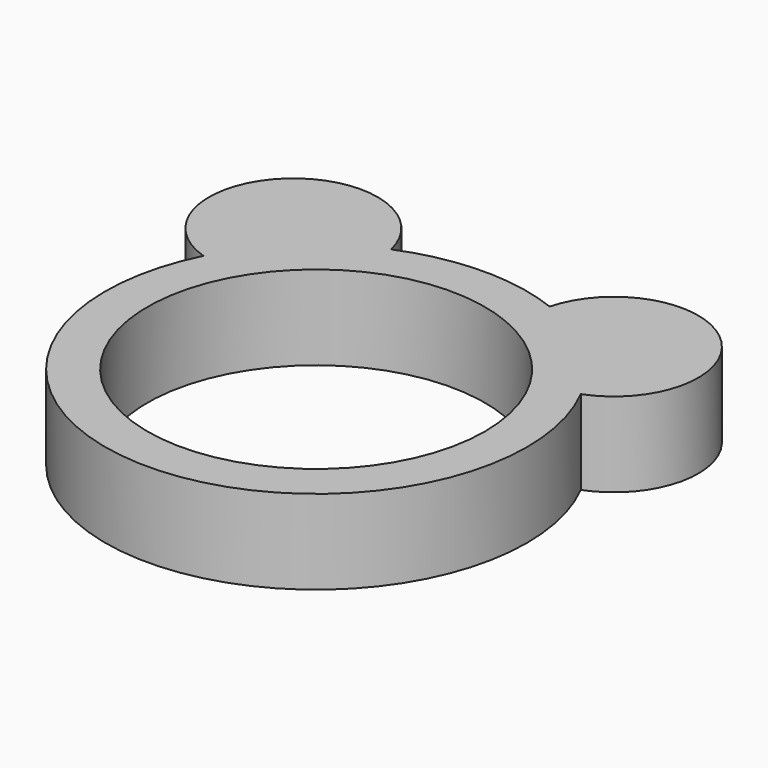
from build123d import *

# Parameters (mm, degrees)
CYLINDER001_R     = 4
CYLINDER001_DEPTH = 5
CYLINDER003_R     = 2
CYLINDER003_DEPTH = 2
CYLINDER002_R     = 2
CYLINDER002_DEPTH = 2
CYLINDER_R        = 5
CYLINDER_DEPTH    = 2


with BuildPart() as interior:
    # Cylinder001 → Cylinder001 (new body)
    with BuildSketch(Plane.XY.offset(-1.53)):
        Circle(CYLINDER001_R)
    extrude(amount=CYLINDER001_DEPTH)


with BuildPart() as obj1:
    # Cylinder003 → Cylinder003 (new body)
    with BuildSketch(Plane(origin=(3.74, 4.15, 0), x_dir=(1, 0, 0), z_dir=(0, 0, 1))):
        Circle(CYLINDER003_R)
    extrude(amount=CYLINDER003_DEPTH)


with BuildPart() as cut001:
    # Cylinder002 → Cylinder002 (new body)
    with BuildSketch(Plane(origin=(-3.86, 4.15, 0), x_dir=(1, 0, 0), z_dir=(0, 0, 1))):
        Circle(CYLINDER002_R)
    extrude(amount=CYLINDER002_DEPTH)

    # Fusion: union obj1
    add(obj1.part)

    # Cut001: cut Interior
    add(interior.part, mode=Mode.SUBTRACT)


with BuildPart() as fusion001:
    # Cylinder → Cylinder (new body)
    with BuildSketch(Plane.XY):
        Circle(CYLINDER_R)
    extrude(amount=CYLINDER_DEPTH)

    # Cut: cut Interior
    add(interior.part, mode=Mode.SUBTRACT)

    # Fusion001: union Cut001
    add(cut001.part)


solid = fusion001.part
